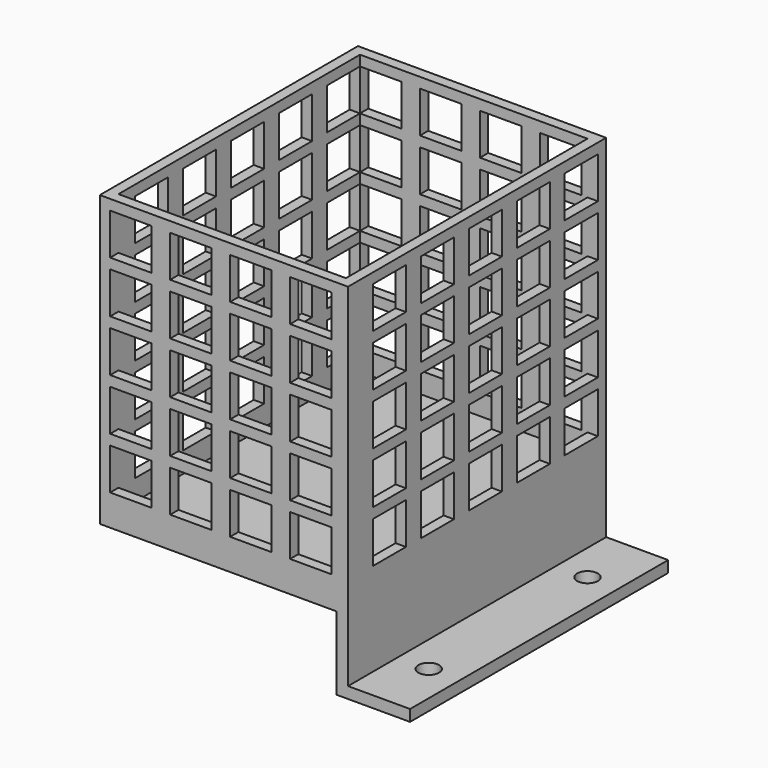
from build123d import *

# Parameters (mm, degrees)
F0_W      = 15
F0_H      = 2.75
F1_DEPTH  = 39
F2_R      = 2.5
F3_DEPTH  = 2.751
F4_W      = 2.75
F4_H      = 78
F4_W_2    = 57.25
F5_DEPTH  = 70
F6_T      = -2.5
F7_W      = 10
F7_H      = 10
F8_DEPTH  = 78.001
F9_W      = 10
F9_H      = 10
F10_DEPTH = 75.001


with BuildPart() as f1:
    # F0 (on Front) → F1 (new body, symmetric)
    with BuildSketch(Plane.XZ):
        with Locations((37.2938492298, 19.7500738595)):
            Rectangle(F0_W, F0_H)
        Polygon((27.0438492298, 18.3750738595), (29.7938492298, 18.3750738595), (29.7938492298, 21.1250738595), (29.7938492298, 36.1250738595), (27.0438492298, 36.1250738595), align=None)
    extrude(amount=F1_DEPTH, both=True)

    # F2 (on face) → F3 (cut, through all)
    with BuildSketch(Plane.XY.offset(21.1250738595)):
        with Locations((37.2938492298, 24)):
            Circle(F2_R)
        with Locations((37.2938492298, -24)):
            Circle(F2_R)
    extrude(amount=-F3_DEPTH, mode=Mode.SUBTRACT)

    # F4 (on face) → F5 (join)
    with BuildSketch(Plane.XY.offset(36.1250738595)):
        with Locations((28.4188492298, 0)):
            Rectangle(F4_W, F4_H)
        with Locations((-1.5811507702, 0)):
            Rectangle(F4_W_2, F4_H)
    extrude(amount=F5_DEPTH)

    # F6
    f6_openings = [f1.faces().sort_by_distance(p)[0] for p in [
        (-0.206151, 0, 106.125074),
    ]]
    offset(amount=F6_T, openings=f6_openings, kind=Kind.INTERSECTION)

    # F7 (on face) → F8 (cut, through all)
    with BuildSketch(Plane(origin=(0, 39, 0), x_dir=(-1, 0, 0), z_dir=(0, 1, 0))):
        with Locations((22.7061507702, 98.6250738595)):
            Rectangle(F7_W, F7_H)
        with Locations((22.7061507702, 86.1250738595)):
            Rectangle(F7_W, F7_H)
        with Locations((22.7061507702, 73.6250738595)):
            Rectangle(F7_W, F7_H)
        with Locations((22.7061507702, 61.1250738595)):
            Rectangle(F7_W, F7_H)
        with Locations((22.7061507702, 48.6250738595)):
            Rectangle(F7_W, F7_H)
        with Locations((8.2061507702, 98.6250738595)):
            Rectangle(F7_W, F7_H)
        with Locations((8.2061507702, 86.1250738595)):
            Rectangle(F7_W, F7_H)
        with Locations((8.2061507702, 73.6250738595)):
            Rectangle(F7_W, F7_H)
        with Locations((8.2061507702, 61.1250738595)):
            Rectangle(F7_W, F7_H)
        with Locations((8.2061507702, 48.6250738595)):
            Rectangle(F7_W, F7_H)
        with Locations((-6.2938492298, 98.6250738595)):
            Rectangle(F7_W, F7_H)
        with Locations((-6.2938492298, 86.1250738595)):
            Rectangle(F7_W, F7_H)
        with Locations((-6.2938492298, 73.6250738595)):
            Rectangle(F7_W, F7_H)
        with Locations((-6.2938492298, 61.1250738595)):
            Rectangle(F7_W, F7_H)
        with Locations((-6.2938492298, 48.6250738595)):
            Rectangle(F7_W, F7_H)
        with Locations((-20.7938492298, 98.6250738595)):
            Rectangle(F7_W, F7_H)
        with Locations((-20.7938492298, 86.1250738595)):
            Rectangle(F7_W, F7_H)
        with Locations((-20.7938492298, 73.6250738595)):
            Rectangle(F7_W, F7_H)
        with Locations((-20.7938492298, 61.1250738595)):
            Rectangle(F7_W, F7_H)
        with Locations((-20.7938492298, 48.6250738595)):
            Rectangle(F7_W, F7_H)
    extrude(amount=-F8_DEPTH, mode=Mode.SUBTRACT)

    # F9 (on face) → F10 (cut, through all)
    with BuildSketch(Plane(origin=(-30.2061507702, 0, 0), x_dir=(0, -1, 0), z_dir=(-1, 0, 0))):
        with Locations((-31.5, 98.6250738595)):
            Rectangle(F9_W, F9_H)
        with Locations((-31.5, 86.1250738595)):
            Rectangle(F9_W, F9_H)
        with Locations((-31.5, 73.6250738595)):
            Rectangle(F9_W, F9_H)
        with Locations((-31.5, 61.1250738595)):
            Rectangle(F9_W, F9_H)
        with Locations((-31.5, 48.6250738595)):
            Rectangle(F9_W, F9_H)
        with Locations((-17, 98.6250738595)):
            Rectangle(F9_W, F9_H)
        with Locations((-17, 86.1250738595)):
            Rectangle(F9_W, F9_H)
        with Locations((-17, 73.6250738595)):
            Rectangle(F9_W, F9_H)
        with Locations((-17, 61.1250738595)):
            Rectangle(F9_W, F9_H)
        with Locations((-17, 48.6250738595)):
            Rectangle(F9_W, F9_H)
        with Locations((-2.5, 98.6250738595)):
            Rectangle(F9_W, F9_H)
        with Locations((-2.5, 86.1250738595)):
            Rectangle(F9_W, F9_H)
        with Locations((-2.5, 73.6250738595)):
            Rectangle(F9_W, F9_H)
        with Locations((-2.5, 61.1250738595)):
            Rectangle(F9_W, F9_H)
        with Locations((-2.5, 48.6250738595)):
            Rectangle(F9_W, F9_H)
        with Locations((12, 98.6250738595)):
            Rectangle(F9_W, F9_H)
        with Locations((12, 86.1250738595)):
            Rectangle(F9_W, F9_H)
        with Locations((12, 73.6250738595)):
            Rectangle(F9_W, F9_H)
        with Locations((12, 61.1250738595)):
            Rectangle(F9_W, F9_H)
        with Locations((12, 48.6250738595)):
            Rectangle(F9_W, F9_H)
        with Locations((26.5, 98.6250738595)):
            Rectangle(F9_W, F9_H)
        with Locations((26.5, 86.1250738595)):
            Rectangle(F9_W, F9_H)
        with Locations((26.5, 73.6250738595)):
            Rectangle(F9_W, F9_H)
        with Locations((26.5, 61.1250738595)):
            Rectangle(F9_W, F9_H)
        with Locations((26.5, 48.6250738595)):
            Rectangle(F9_W, F9_H)
    extrude(amount=-F10_DEPTH, mode=Mode.SUBTRACT)


solid = f1.part
